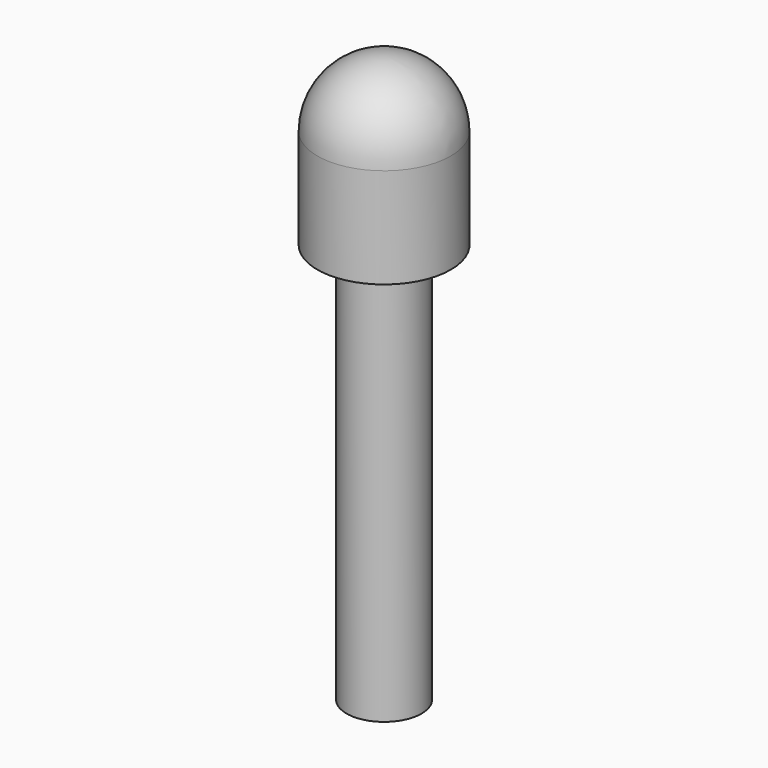
from build123d import *

# Parameters (mm, degrees)
F0_R     = 2.25
F1_DEPTH = 24
F2_R     = 4
F2_R_2   = 2.25
F3_DEPTH = 10
F4_R     = 4


with BuildPart() as f1:
    # F0 (on Top) → F1 (new body)
    with BuildSketch(Plane.XY):
        Circle(F0_R)
    extrude(amount=F1_DEPTH)

    # F2 (on face) → F3 (join)
    with BuildSketch(Plane.XY.offset(24)):
        Circle(F2_R)
        Circle(F2_R_2, mode=Mode.SUBTRACT)
        Circle(F2_R_2)
    extrude(amount=F3_DEPTH)

    # F4
    f4_edges = [f1.edges().sort_by_distance(p)[0] for p in [
        (-4, 0, 34),
    ]]
    fillet(f4_edges, radius=F4_R)


solid = f1.part
